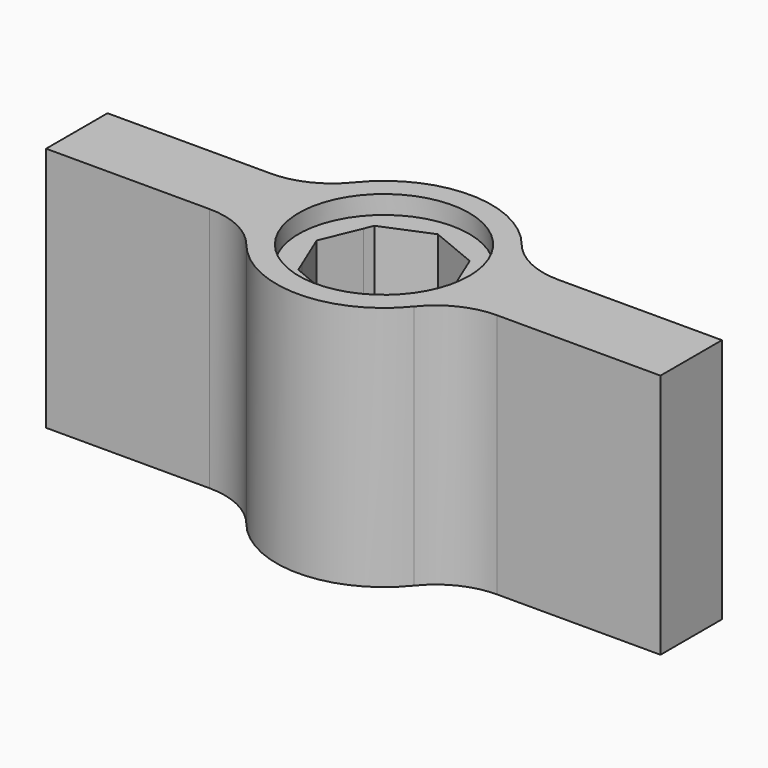
from build123d import *

# Parameters (mm, degrees)
F1_DEPTH = 8
F2_R     = 5.55
F3_DEPTH = 1.2


with BuildPart() as f1:
    # F0 (on Top) → F1 (new body, symmetric)
    with BuildSketch(Plane.XY):
        with BuildLine():
            ThreePointArc((-9.367497, -2.5), (-7.202433, -2.993061), (-5.464373, -4.375))
            ThreePointArc((-5.464373, -4.375), (0, -7), (5.464373, -4.375))
            ThreePointArc((5.464373, -4.375), (7.202433, -2.993061), (9.367497, -2.5))
            Line((9.367497, -2.5), (20, -2.5))
            Line((20, -2.5), (20, 2.5))
            Line((20, 2.5), (9.367497, 2.5))
            ThreePointArc((9.367497, 2.5), (7.202433, 2.993061), (5.464373, 4.375))
            ThreePointArc((5.464373, 4.375), (0, 7), (-5.464373, 4.375))
            ThreePointArc((-5.464373, 4.375), (-7.202433, 2.993061), (-9.367497, 2.5))
            Line((-9.367497, 2.5), (-20, 2.5))
            Line((-20, 2.5), (-20, -2.5))
            Line((-20, -2.5), (-9.367497, -2.5))
        make_face()
        Polygon((3.348155, 2.5), (4.383688, 0), (3.099736, -3.099736), (0, -4.383688), (-3.099736, -3.099736), (-3.348155, -2.5), (-4.383688, 0), (-3.348155, 2.5), (-3.099736, 3.099736), (0, 4.383688), (3.099736, 3.099736), align=None, mode=Mode.SUBTRACT)
    extrude(amount=F1_DEPTH, both=True)

    # F2 (on face) → F3 (cut)
    with BuildSketch(Plane.XY.offset(8)):
        Circle(F2_R)
        Polygon((0, 4.383688), (3.099736, 3.099736), (4.383688, 0), (3.099736, -3.099736), (0, -4.383688), (-3.099736, -3.099736), (-4.383688, 0), (-3.099736, 3.099736), align=None, mode=Mode.SUBTRACT)
    extrude(amount=-F3_DEPTH, mode=Mode.SUBTRACT)


solid = f1.part
